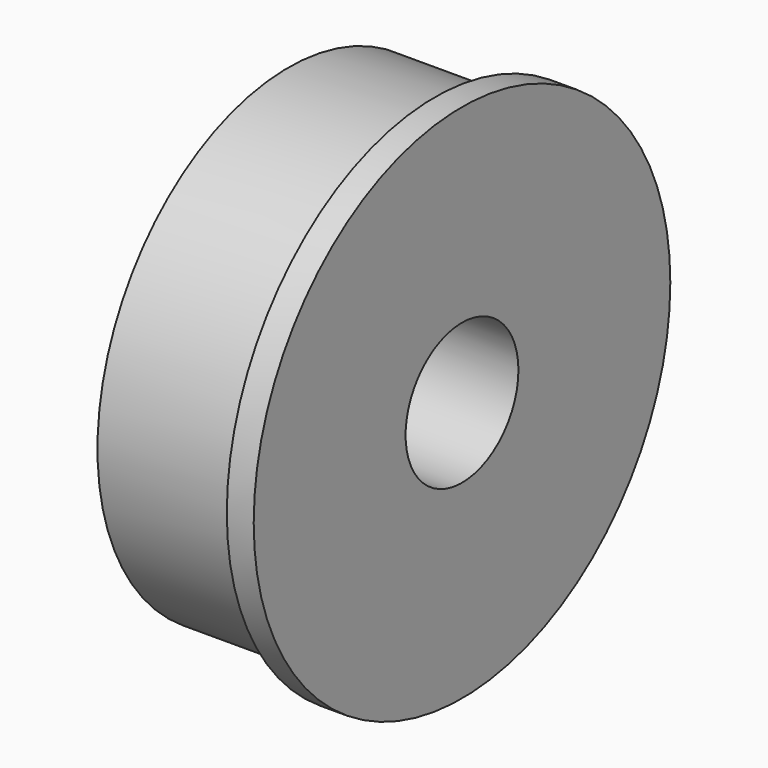
from build123d import *

# Parameters (mm, degrees)
F0_R     = 69.85
F0_R_2   = 20.6375
F1_DEPTH = 42.926
F2_R     = 76.2
F2_R_2   = 20.6375
F3_DEPTH = 7.874


with BuildPart() as f1:
    # F0 (on Right) → F1 (new body)
    with BuildSketch(Plane.YZ):
        Circle(F0_R)
        Circle(F0_R_2, mode=Mode.SUBTRACT)
    extrude(amount=F1_DEPTH)

    # F2 (on face) → F3 (join)
    with BuildSketch(Plane.YZ.offset(42.926)):
        Circle(F2_R)
        Circle(F2_R_2, mode=Mode.SUBTRACT)
    extrude(amount=F3_DEPTH)


solid = f1.part
